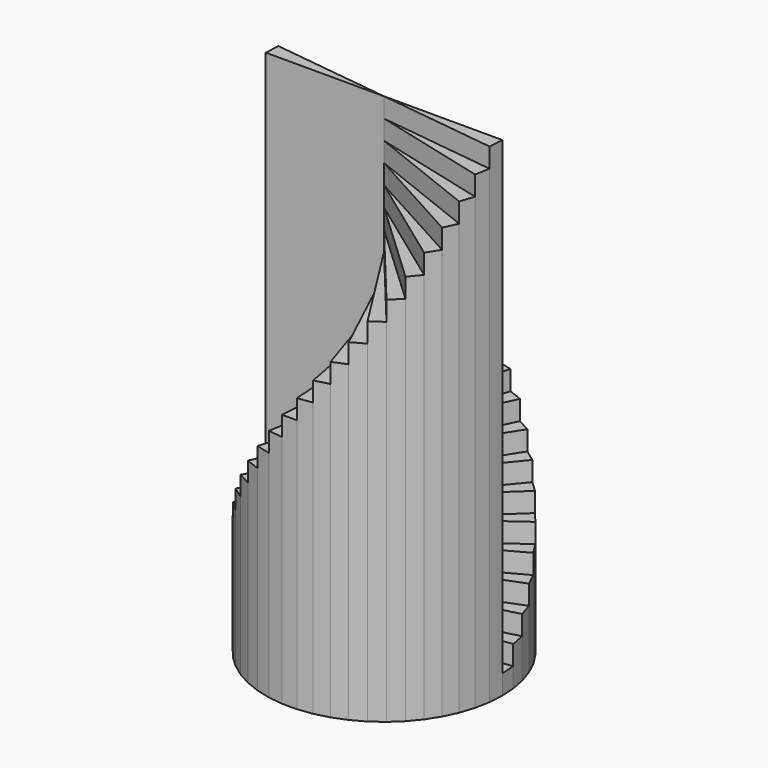
from build123d import *

# Parameters (mm, degrees)
F1_DEPTH  = 6.35
F2_DEPTH  = 12.7
F3_DEPTH  = 19.05
F4_DEPTH  = 25.4
F5_DEPTH  = 31.75
F6_DEPTH  = 38.1
F7_DEPTH  = 44.45
F8_DEPTH  = 50.8
F9_DEPTH  = 57.15
F10_DEPTH = 63.5
F11_DEPTH = 69.85
F12_DEPTH = 76.2
F13_DEPTH = 82.55
F14_DEPTH = 88.9
F15_DEPTH = 95.25
F16_DEPTH = 101.6
F17_DEPTH = 107.95
F18_DEPTH = 114.3
F19_DEPTH = 120.65
F20_DEPTH = 127
F21_DEPTH = 133.35
F22_DEPTH = 139.7
F23_DEPTH = 146.05
F24_DEPTH = 152.4
F25_DEPTH = 158.75


with BuildPart() as f1:
    # F0 (on Top) → F1 (new body)
    with BuildSketch(Plane.XY):
        Polygon((38.091975, 4.812136), (0, 0), (38.394729, 0), align=None)
        Polygon((-38.091975, -4.812136), (0, 0), (-38.394729, 0), align=None)
    extrude(amount=F1_DEPTH)


with BuildPart() as f2:
    # F0 (on Top) → F2 (new body)
    with BuildSketch(Plane.XY):
        Polygon((37.188488, 9.548381), (0, 0), (38.091975, 4.812136), align=None)
        Polygon((-37.188488, -9.548381), (0, 0), (-38.091975, -4.812136), align=None)
    extrude(amount=F2_DEPTH)


with BuildPart() as f3:
    # F0 (on Top) → F3 (new body)
    with BuildSketch(Plane.XY):
        Polygon((35.698516, 14.134042), (0, 0), (37.188488, 9.548381), align=None)
        Polygon((-35.698516, -14.134042), (0, 0), (-37.188488, -9.548381), align=None)
    extrude(amount=F3_DEPTH)


with BuildPart() as f4:
    # F0 (on Top) → F4 (new body)
    with BuildSketch(Plane.XY):
        Polygon((33.645557, 18.496802), (0, 0), (35.698516, 14.134042), align=None)
        Polygon((-33.645557, -18.496802), (0, 0), (-35.698516, -14.134042), align=None)
    extrude(amount=F4_DEPTH)


with BuildPart() as f5:
    # F0 (on Top) → F5 (new body)
    with BuildSketch(Plane.XY):
        Polygon((31.061988, 22.567855), (0, 0), (33.645557, 18.496802), align=None)
        Polygon((-31.061988, -22.567855), (0, 0), (-33.645557, -18.496802), align=None)
    extrude(amount=F5_DEPTH)


with BuildPart() as f6:
    # F0 (on Top) → F6 (new body)
    with BuildSketch(Plane.XY):
        Polygon((27.988553, 26.283), (0, 0), (31.061988, 22.567855), align=None)
        Polygon((-27.988553, -26.283), (0, 0), (-31.061988, -22.567855), align=None)
    extrude(amount=F6_DEPTH)


with BuildPart() as f7:
    # F0 (on Top) → F7 (new body)
    with BuildSketch(Plane.XY):
        Polygon((24.473721, 29.583647), (0, 0), (27.988553, 26.283), align=None)
        Polygon((-24.473721, -29.583647), (0, 0), (-27.988553, -26.283), align=None)
    extrude(amount=F7_DEPTH)


with BuildPart() as f8:
    # F0 (on Top) → F8 (new body)
    with BuildSketch(Plane.XY):
        Polygon((20.572924, 32.417742), (0, 0), (24.473721, 29.583647), align=None)
        Polygon((-20.572924, -32.417742), (0, 0), (-24.473721, -29.583647), align=None)
    extrude(amount=F8_DEPTH)


with BuildPart() as f9:
    # F0 (on Top) → F9 (new body)
    with BuildSketch(Plane.XY):
        Polygon((16.34768, 34.740589), (0, 0), (20.572924, 32.417742), align=None)
        Polygon((-16.34768, -34.740589), (0, 0), (-20.572924, -32.417742), align=None)
    extrude(amount=F9_DEPTH)


with BuildPart() as f10:
    # F0 (on Top) → F10 (new body)
    with BuildSketch(Plane.XY):
        Polygon((11.864624, 36.515557), (0, 0), (16.34768, 34.740589), align=None)
        Polygon((-11.864624, -36.515557), (0, 0), (-16.34768, -34.740589), align=None)
    extrude(amount=F10_DEPTH)


with BuildPart() as f11:
    # F0 (on Top) → F11 (new body)
    with BuildSketch(Plane.XY):
        Polygon((7.194455, 37.714653), (0, 0), (11.864624, 36.515557), align=None)
        Polygon((-7.194455, -37.714653), (0, 0), (-11.864624, -36.515557), align=None)
    extrude(amount=F11_DEPTH)


with BuildPart() as f12:
    # F0 (on Top) → F12 (new body)
    with BuildSketch(Plane.XY):
        Polygon((7.194455, 37.714653), (2.410825, 38.318966), (0, 0), align=None)
        Polygon((-2.410825, -38.318966), (0, 0), (-7.194455, -37.714653), align=None)
    extrude(amount=F12_DEPTH)


with BuildPart() as f13:
    # F0 (on Top) → F13 (new body)
    with BuildSketch(Plane.XY):
        Polygon((2.410825, 38.318966), (-2.410825, 38.318966), (0, 0), align=None)
        Polygon((2.410825, -38.318966), (0, 0), (-2.410825, -38.318966), align=None)
    extrude(amount=F13_DEPTH)


with BuildPart() as f14:
    # F0 (on Top) → F14 (new body)
    with BuildSketch(Plane.XY):
        Polygon((0, 0), (-2.410825, 38.318966), (-7.194455, 37.714653), align=None)
        Polygon((7.194455, -37.714653), (0, 0), (2.410825, -38.318966), align=None)
    extrude(amount=F14_DEPTH)


with BuildPart() as f15:
    # F0 (on Top) → F15 (new body)
    with BuildSketch(Plane.XY):
        Polygon((0, 0), (-7.194455, 37.714653), (-11.864624, 36.515557), align=None)
        Polygon((11.864624, -36.515557), (0, 0), (7.194455, -37.714653), align=None)
    extrude(amount=F15_DEPTH)


with BuildPart() as f16:
    # F0 (on Top) → F16 (new body)
    with BuildSketch(Plane.XY):
        Polygon((-16.34768, 34.740589), (0, 0), (-11.864624, 36.515557), align=None)
        Polygon((16.34768, -34.740589), (0, 0), (11.864624, -36.515557), align=None)
    extrude(amount=F16_DEPTH)


with BuildPart() as f17:
    # F0 (on Top) → F17 (new body)
    with BuildSketch(Plane.XY):
        Polygon((-20.572924, 32.417742), (0, 0), (-16.34768, 34.740589), align=None)
        Polygon((20.572924, -32.417742), (0, 0), (16.34768, -34.740589), align=None)
    extrude(amount=F17_DEPTH)


with BuildPart() as f18:
    # F0 (on Top) → F18 (new body)
    with BuildSketch(Plane.XY):
        Polygon((-24.473721, 29.583647), (0, 0), (-20.572924, 32.417742), align=None)
        Polygon((24.473721, -29.583647), (0, 0), (20.572924, -32.417742), align=None)
    extrude(amount=F18_DEPTH)


with BuildPart() as f19:
    # F0 (on Top) → F19 (new body)
    with BuildSketch(Plane.XY):
        Polygon((-27.988553, 26.283), (0, 0), (-24.473721, 29.583647), align=None)
        Polygon((27.988553, -26.283), (0, 0), (24.473721, -29.583647), align=None)
    extrude(amount=F19_DEPTH)


with BuildPart() as f20:
    # F0 (on Top) → F20 (new body)
    with BuildSketch(Plane.XY):
        Polygon((-31.061988, 22.567855), (0, 0), (-27.988553, 26.283), align=None)
        Polygon((31.061988, -22.567855), (0, 0), (27.988553, -26.283), align=None)
    extrude(amount=F20_DEPTH)


with BuildPart() as f21:
    # F0 (on Top) → F21 (new body)
    with BuildSketch(Plane.XY):
        Polygon((-33.645557, 18.496802), (0, 0), (-31.061988, 22.567855), align=None)
        Polygon((33.645557, -18.496802), (0, 0), (31.061988, -22.567855), align=None)
    extrude(amount=F21_DEPTH)


with BuildPart() as f22:
    # F0 (on Top) → F22 (new body)
    with BuildSketch(Plane.XY):
        Polygon((-35.698516, 14.134042), (0, 0), (-33.645557, 18.496802), align=None)
        Polygon((35.698516, -14.134042), (0, 0), (33.645557, -18.496802), align=None)
    extrude(amount=F22_DEPTH)


with BuildPart() as f23:
    # F0 (on Top) → F23 (new body)
    with BuildSketch(Plane.XY):
        Polygon((-37.188488, 9.548381), (0, 0), (-35.698516, 14.134042), align=None)
        Polygon((37.188488, -9.548381), (0, 0), (35.698516, -14.134042), align=None)
    extrude(amount=F23_DEPTH)


with BuildPart() as f24:
    # F0 (on Top) → F24 (new body)
    with BuildSketch(Plane.XY):
        Polygon((-38.091975, 4.812136), (0, 0), (-37.188488, 9.548381), align=None)
        Polygon((38.091975, -4.812136), (0, 0), (37.188488, -9.548381), align=None)
    extrude(amount=F24_DEPTH)


with BuildPart() as f25:
    # F0 (on Top) → F25 (new body)
    with BuildSketch(Plane.XY):
        Polygon((-38.394729, 0), (0, 0), (-38.091975, 4.812136), align=None)
        Polygon((38.394729, 0), (0, 0), (38.091975, -4.812136), align=None)
    extrude(amount=F25_DEPTH)


solid = Compound([f1.part, f2.part, f3.part, f4.part, f5.part, f6.part, f7.part, f8.part, f9.part, f10.part, f11.part, f12.part, f13.part, f14.part, f15.part, f16.part, f17.part, f18.part, f19.part, f20.part, f21.part, f22.part, f23.part, f24.part, f25.part])
